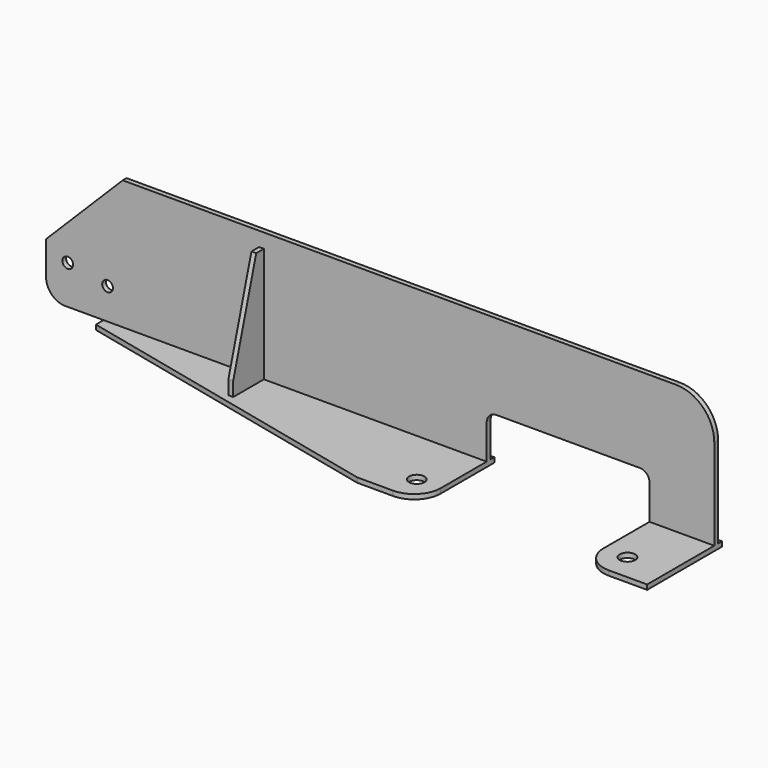
from build123d import *

# Parameters (mm, degrees)
F1_DEPTH  = 3.175
F2_SIZE   = 101.6
F4_D      = 14.2875
F5_W      = 85.852
F5_H      = 25.4
F5_W_2    = 507.99026
F6_DEPTH  = 6.35
F8_D      = 20.6375
F11_DEPTH = 6.35
F12_R     = 25.4


with BuildPart() as f1:
    # F0 (on Front) → F1 (new body, symmetric)
    with BuildSketch(Plane.XZ):
        with BuildLine():
            Line((-692.15, 171.45), (-692.15, 0))
            Line((-692.15, 0), (-107.95, 0))
            Line((-107.95, 0), (-107.95, 45.974))
            ThreePointArc((-107.95, 45.974), (-104.230256, 54.954256), (-95.25, 58.674))
            Line((-95.25, 58.674), (95.25, 58.674))
            ThreePointArc((95.25, 58.674), (104.230256, 54.954256), (107.95, 45.974))
            Line((107.95, 45.974), (107.95, 0))
            Line((107.95, 0), (193.802, 0))
            Line((193.802, 0), (193.802, 120.65))
            ThreePointArc((193.802, 120.65), (178.923024, 156.571024), (143.002, 171.45))
            Line((143.002, 171.45), (-692.15, 171.45))
        make_face()
    extrude(amount=F1_DEPTH, both=True)

    # F2
    f2_edges = [f1.edges().sort_by_distance(p)[0] for p in [
        (-692.15, 0, 171.45),
    ]]
    chamfer(f2_edges, length=F2_SIZE)

    # F4 (through all)
    with Locations(Plane.XZ.offset(3.175)):
        with Locations((-610.616, 41.402), (-663.448, 51.562)):
            Hole(F4_D / 2)

    # F5 (on Top) → F6 (join)
    with BuildSketch(Plane.XY):
        with Locations((150.876, -3.175)):
            Rectangle(F5_W, F5_H)
        with Locations((-361.94513, -3.175)):
            Rectangle(F5_W_2, F5_H)
        with BuildLine():
            Line((-107.95, -15.875), (-615.94026, -15.875))
            Line((-615.94026, -15.875), (-190.49026, -114.427))
            Line((-190.49026, -114.427), (-143.002, -114.427))
            ThreePointArc((-143.002, -114.427), (-118.216493, -104.160507), (-107.95, -79.375))
            Line((-107.95, -79.375), (-107.95, -15.875))
        make_face()
        with BuildLine():
            Line((193.802, -15.875), (107.95, -15.875))
            Line((107.95, -15.875), (107.95, -79.375))
            ThreePointArc((107.95, -79.375), (118.216493, -104.160507), (143.002, -114.427))
            Line((143.002, -114.427), (193.802, -114.427))
            Line((193.802, -114.427), (193.802, -15.875))
        make_face()
    extrude(amount=-F6_DEPTH)

    # F8 (through all)
    with Locations(Plane.XY):
        with Locations((-139.7, -79.375), (139.7, -79.375)):
            Hole(F8_D / 2)

    # F10 (on offset) → F11 (join)
    with BuildSketch(Plane.YZ.offset(-403.352)):
        Polygon((-53.975, 0), (-3.175, 0), (-3.175, 152.4), (-15.875, 152.4), (-53.975, 19.05), align=None)
    extrude(amount=-F11_DEPTH)

    # F12
    f12_edges = [f1.edges().sort_by_distance(p)[0] for p in [
        (-692.15, 0, 0),
    ]]
    fillet(f12_edges, radius=F12_R)


solid = f1.part
